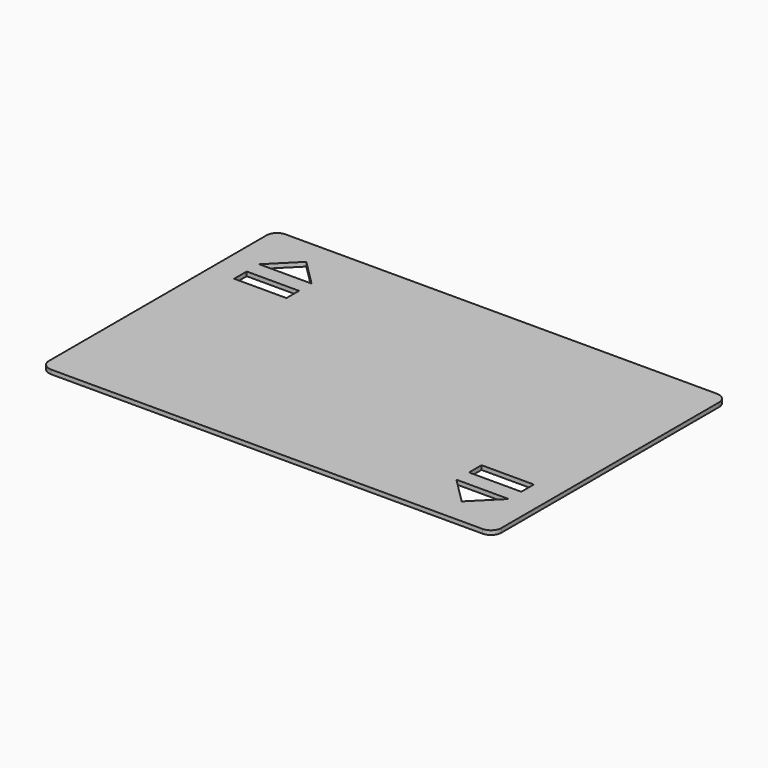
from build123d import *

# Parameters (mm, degrees)
F1_DEPTH = 0.8
F2_W     = 10
F2_H     = 3
F3_DEPTH = 25


with BuildPart() as f1:
    # F0 (on Top) → F1 (new body)
    with BuildSketch(Plane.XY):
        with BuildLine():
            Line((38.767996, 24.112422), (-43.732004, 24.112422))
            ThreePointArc((-43.732004, 24.112422), (-45.146218, 23.526636), (-45.732004, 22.112422))
            Line((-45.732004, 22.112422), (-45.732004, -29.887578))
            ThreePointArc((-45.732004, -29.887578), (-45.146218, -31.301791), (-43.732004, -31.887578))
            Line((-43.732004, -31.887578), (38.767996, -31.887578))
            ThreePointArc((38.767996, -31.887578), (40.182209, -31.301791), (40.767996, -29.887578))
            Line((40.767996, -29.887578), (40.767996, 22.112422))
            ThreePointArc((40.767996, 22.112422), (40.182209, 23.526636), (38.767996, 24.112422))
        make_face()
    extrude(amount=F1_DEPTH)

    # F2 (on face) → F3 (cut)
    with BuildSketch(Plane.XY.offset(0.8)):
        with Locations((-35.732004, 9.612422)):
            Rectangle(F2_W, F2_H)
        Polygon((-35.732004, 19.112422), (-40.732004, 14.112422), (-30.732004, 14.112422), align=None)
        with Locations((30.767996, -17.387578)):
            Rectangle(F2_W, F2_H)
        Polygon((30.767996, -26.887578), (35.767996, -21.887578), (25.767996, -21.887578), align=None)
    extrude(amount=-F3_DEPTH, mode=Mode.SUBTRACT)


solid = f1.part
